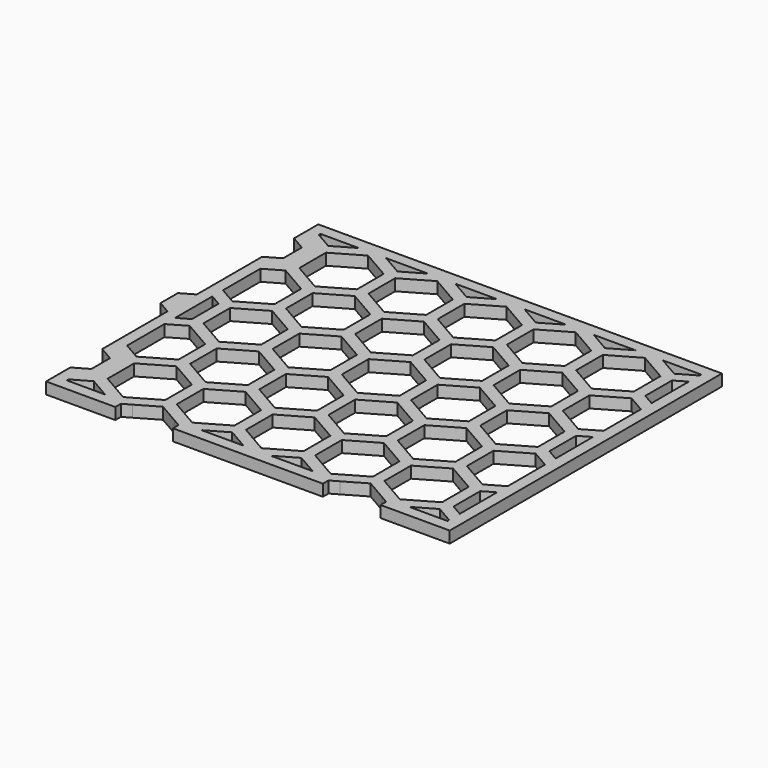
from build123d import *

# Parameters (mm, degrees)
F0_W      = 140
F0_H      = 118
F0_W_2    = 132
F0_H_2    = 110
F1_DEPTH  = 4
F2_W      = 140
F2_H      = 118
F3_DEPTH  = 4
F5_DEPTH  = 4.001
F7_DEPTH  = 4
F9_DEPTH  = 4
F11_DEPTH = 4.001


with BuildPart() as f1:
    # F0 (on Top) → F1 (new body)
    with BuildSketch(Plane.XY):
        Rectangle(F0_W, F0_H)
        Rectangle(F0_W_2, F0_H_2, mode=Mode.SUBTRACT)
    extrude(amount=F1_DEPTH)

    # F2 (on Top) → F3 (join, through all)
    with BuildSketch(Plane.XY):
        Rectangle(F2_W, F2_H)
        Polygon((-66, -54.2724865405), (-60, -50.8083849254), (-52.739909725, -55), (-66, -55), align=None, mode=Mode.SUBTRACT)
        Polygon((-43.260090275, -55), (-36, -50.8083849254), (-28.739909725, -55), align=None, mode=Mode.SUBTRACT)
        Polygon((-62, -35.7964973081), (-62, -47.3435026919), (-66, -49.6529037687), (-66, -33.4870962313), align=None, mode=Mode.SUBTRACT)
        Polygon((-38, -35.7964973081), (-38, -47.3435026919), (-48, -53.1170053838), (-58, -47.3435026919), (-58, -35.7964973081), (-48, -30.0229946162), align=None, mode=Mode.SUBTRACT)
        Polygon((-19.260090275, -55), (-12, -50.8083849254), (-4.739909725, -55), align=None, mode=Mode.SUBTRACT)
        Polygon((-14, -35.7964973081), (-14, -47.3435026919), (-24, -53.1170053838), (-34, -47.3435026919), (-34, -35.7964973081), (-24, -30.0229946162), align=None, mode=Mode.SUBTRACT)
        Polygon((-60, -9.2383849254), (-50, -15.0118876173), (-50, -26.5588930011), (-60, -32.332395693), (-66, -28.8682940778), (-66, -12.7024865405), align=None, mode=Mode.SUBTRACT)
        Polygon((-36, -9.2383849254), (-26, -15.0118876173), (-26, -26.5588930011), (-36, -32.332395693), (-46, -26.5588930011), (-46, -15.0118876173), align=None, mode=Mode.SUBTRACT)
        Polygon((-12, -9.2383849254), (-2, -15.0118876173), (-2, -26.5588930011), (-12, -32.332395693), (-22, -26.5588930011), (-22, -15.0118876173), align=None, mode=Mode.SUBTRACT)
        Polygon((4.739909725, -55), (12, -50.8083849254), (19.260090275, -55), align=None, mode=Mode.SUBTRACT)
        Polygon((10, -35.7964973081), (10, -47.3435026919), (0, -53.1170053838), (-10, -47.3435026919), (-10, -35.7964973081), (0, -30.0229946162), align=None, mode=Mode.SUBTRACT)
        Polygon((34, -35.7964973081), (34, -47.3435026919), (24, -53.1170053838), (14, -47.3435026919), (14, -35.7964973081), (24, -30.0229946162), align=None, mode=Mode.SUBTRACT)
        Polygon((28.739909725, -55), (36, -50.8083849254), (43.260090275, -55), align=None, mode=Mode.SUBTRACT)
        Polygon((52.739909725, -55), (60, -50.8083849254), (66, -54.2724865405), (66, -55), align=None, mode=Mode.SUBTRACT)
        Polygon((58, -35.7964973081), (58, -47.3435026919), (48, -53.1170053838), (38, -47.3435026919), (38, -35.7964973081), (48, -30.0229946162), align=None, mode=Mode.SUBTRACT)
        Polygon((66, -33.4870962313), (66, -49.6529037687), (62, -47.3435026919), (62, -35.7964973081), align=None, mode=Mode.SUBTRACT)
        Polygon((12, -9.2383849254), (22, -15.0118876173), (22, -26.5588930011), (12, -32.332395693), (2, -26.5588930011), (2, -15.0118876173), align=None, mode=Mode.SUBTRACT)
        Polygon((36, -9.2383849254), (46, -15.0118876173), (46, -26.5588930011), (36, -32.332395693), (26, -26.5588930011), (26, -15.0118876173), align=None, mode=Mode.SUBTRACT)
        Polygon((50, -15.0118876173), (60, -9.2383849254), (66, -12.7024865405), (66, -28.8682940778), (60, -32.332395693), (50, -26.5588930011), align=None, mode=Mode.SUBTRACT)
        Polygon((-62, 5.7735026919), (-62, -5.7735026919), (-66, -8.0829037687), (-66, 8.0829037687), align=None, mode=Mode.SUBTRACT)
        Polygon((-38, 5.7735026919), (-38, -5.7735026919), (-48, -11.5470053838), (-58, -5.7735026919), (-58, 5.7735026919), (-48, 11.5470053838), align=None, mode=Mode.SUBTRACT)
        Polygon((-60, 32.3316150746), (-50, 26.5581123827), (-50, 15.0111069989), (-60, 9.237604307), (-66, 12.7017059222), (-66, 28.8675134595), align=None, mode=Mode.SUBTRACT)
        Polygon((-36, 32.3316150746), (-26, 26.5581123827), (-26, 15.0111069989), (-36, 9.237604307), (-46, 15.0111069989), (-46, 26.5581123827), align=None, mode=Mode.SUBTRACT)
        Polygon((-14, 5.7735026919), (-14, -5.7735026919), (-24, -11.5470053838), (-34, -5.7735026919), (-34, 5.7735026919), (-24, 11.5470053838), align=None, mode=Mode.SUBTRACT)
        Polygon((-12, 32.3316150746), (-2, 26.5581123827), (-2, 15.0111069989), (-12, 9.237604307), (-22, 15.0111069989), (-22, 26.5581123827), align=None, mode=Mode.SUBTRACT)
        Polygon((-62, 47.3435026919), (-62, 35.7964973081), (-66, 33.4870962313), (-66, 49.6529037687), align=None, mode=Mode.SUBTRACT)
        Polygon((-38, 47.3435026919), (-38, 35.7964973081), (-48, 30.0229946162), (-58, 35.7964973081), (-58, 47.3435026919), (-48, 53.1170053838), align=None, mode=Mode.SUBTRACT)
        Polygon((-52.7385576544, 55), (-60, 50.807604307), (-66, 54.2717059222), (-66, 55), align=None, mode=Mode.SUBTRACT)
        Polygon((-28.7385576544, 55), (-36, 50.807604307), (-43.2614423456, 55), align=None, mode=Mode.SUBTRACT)
        Polygon((-14, 47.3435026919), (-14, 35.7964973081), (-24, 30.0229946162), (-34, 35.7964973081), (-34, 47.3435026919), (-24, 53.1170053838), align=None, mode=Mode.SUBTRACT)
        Polygon((-4.7385576544, 55), (-12, 50.807604307), (-19.2614423456, 55), align=None, mode=Mode.SUBTRACT)
        Polygon((10, 5.7735026919), (10, -5.7735026919), (0, -11.5470053838), (-10, -5.7735026919), (-10, 5.7735026919), (0, 11.5470053838), align=None, mode=Mode.SUBTRACT)
        Polygon((34, 5.7735026919), (34, -5.7735026919), (24, -11.5470053838), (14, -5.7735026919), (14, 5.7735026919), (24, 11.5470053838), align=None, mode=Mode.SUBTRACT)
        Polygon((12, 32.3316150746), (22, 26.5581123827), (22, 15.0111069989), (12, 9.237604307), (2, 15.0111069989), (2, 26.5581123827), align=None, mode=Mode.SUBTRACT)
        Polygon((58, 5.7735026919), (58, -5.7735026919), (48, -11.5470053838), (38, -5.7735026919), (38, 5.7735026919), (48, 11.5470053838), align=None, mode=Mode.SUBTRACT)
        Polygon((66, 8.0829037687), (66, -8.0829037687), (62, -5.7735026919), (62, 5.7735026919), align=None, mode=Mode.SUBTRACT)
        Polygon((36, 32.3316150746), (46, 26.5581123827), (46, 15.0111069989), (36, 9.237604307), (26, 15.0111069989), (26, 26.5581123827), align=None, mode=Mode.SUBTRACT)
        Polygon((50, 26.5581123827), (60, 32.3316150746), (66, 28.8675134595), (66, 12.7017059222), (60, 9.237604307), (50, 15.0111069989), align=None, mode=Mode.SUBTRACT)
        Polygon((10, 47.3435026919), (10, 35.7964973081), (0, 30.0229946162), (-10, 35.7964973081), (-10, 47.3435026919), (0, 53.1170053838), align=None, mode=Mode.SUBTRACT)
        Polygon((34, 47.3435026919), (34, 35.7964973081), (24, 30.0229946162), (14, 35.7964973081), (14, 47.3435026919), (24, 53.1170053838), align=None, mode=Mode.SUBTRACT)
        Polygon((19.2614423456, 55), (12, 50.807604307), (4.7385576543, 55), align=None, mode=Mode.SUBTRACT)
        Polygon((58, 47.3435026919), (58, 35.7964973081), (48, 30.0229946162), (38, 35.7964973081), (38, 47.3435026919), (48, 53.1170053838), align=None, mode=Mode.SUBTRACT)
        Polygon((66, 49.6529037687), (66, 33.4870962313), (62, 35.7964973081), (62, 47.3435026919), align=None, mode=Mode.SUBTRACT)
        Polygon((43.2614423456, 55), (36, 50.807604307), (28.7385576543, 55), align=None, mode=Mode.SUBTRACT)
        Polygon((66, 54.2717059222), (60, 50.807604307), (52.7385576543, 55), (66, 55), align=None, mode=Mode.SUBTRACT)
    extrude(amount=F3_DEPTH)

    # F4 (on Top) → F5 (cut, through all)
    with BuildSketch(Plane.XY):
        Polygon((26, -68.1288930011), (36, -73.902395693), (46, -68.1288930011), (46, -56.5818876173), (36, -50.8083849254), (26, -56.5818876173), align=None)
        Polygon((-36, -73.902395693), (-26, -68.1288930011), (-26, -56.5818876173), (-36, -50.8083849254), (-46, -56.5818876173), (-46, -68.1288930011), align=None)
    extrude(amount=F5_DEPTH, mode=Mode.SUBTRACT)

    # F6 (on Top) → F7 (join, through all)
    with BuildSketch(Plane.XY):
        Polygon((-70, 6.3508529611), (-74.5, 3.7527767497), (-74.5, -3.7527767497), (-70, -6.3508529611), align=None)
    extrude(amount=F7_DEPTH)

    # F8 (on Top) → F9 (join, through all)
    with BuildSketch(Plane.XY):
        Polygon((-62, 47.3435026919), (-70, 51.9623048454), (-70, 31.1776951546), (-62, 35.7964973081), align=None)
        Polygon((-70, -51.9623048454), (-62, -47.3435026919), (-62, -35.7964973081), (-70, -31.1776951546), align=None)
    extrude(amount=F9_DEPTH)

    # F10 (on Top) → F11 (cut, through all)
    with BuildSketch(Plane.XY):
        Polygon((-70, 34.6417967697), (-65, 37.5285481157), (-65, 45.6114518843), (-70, 48.4982032303), align=None)
        Polygon((-70, -48.4982032303), (-65, -45.6114518843), (-65, -37.5285481157), (-70, -34.6417967697), align=None)
    extrude(amount=F11_DEPTH, mode=Mode.SUBTRACT)


solid = f1.part
